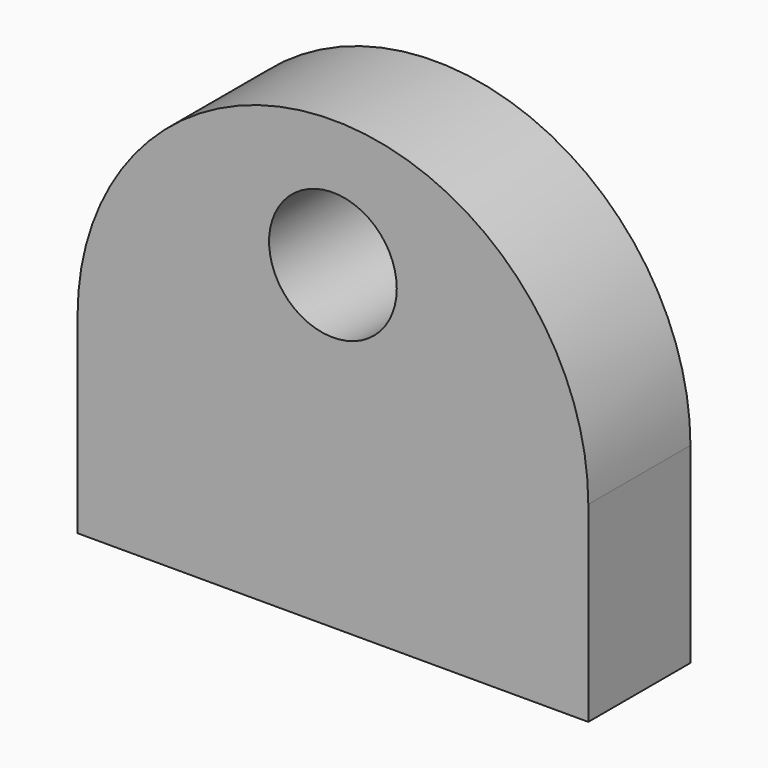
from build123d import *

# Parameters (mm, degrees)
F2_R     = 6.35
F0_DEPTH = 12.7
F1_D     = 6.35
F1_DEPTH = 19.05
F1_TIP   = 1.9077324654


with BuildPart() as f0:
    # F2 (on Front) → F0 (new body)
    with BuildSketch(Plane.XZ):
        with BuildLine():
            Line((-25.4, -9.525), (25.4, -9.525))
            Line((25.4, -9.525), (25.4, 9.525))
            ThreePointArc((25.4, 9.525), (0, 34.925), (-25.4, 9.525))
            Line((-25.4, 9.525), (-25.4, -9.525))
        make_face()
        with Locations((0, 22.225)):
            Circle(F2_R, mode=Mode.SUBTRACT)
    extrude(amount=F0_DEPTH)

    # F1 (one way)
    with BuildSketch(Plane.XY):
        with Locations((19.05, -6.35), (-19.05, -6.35)):
            Circle(F1_D / 2)
    extrude(amount=-F1_DEPTH, mode=Mode.SUBTRACT)
    with Locations(Plane.XY):
        with Locations((19.05, -6.35), (-19.05, -6.35)):
            with Locations((0, 0, -(F1_DEPTH + F1_TIP / 2))):  # 118° drill point
                Cone(0, F1_D / 2, F1_TIP, mode=Mode.SUBTRACT)


solid = f0.part
